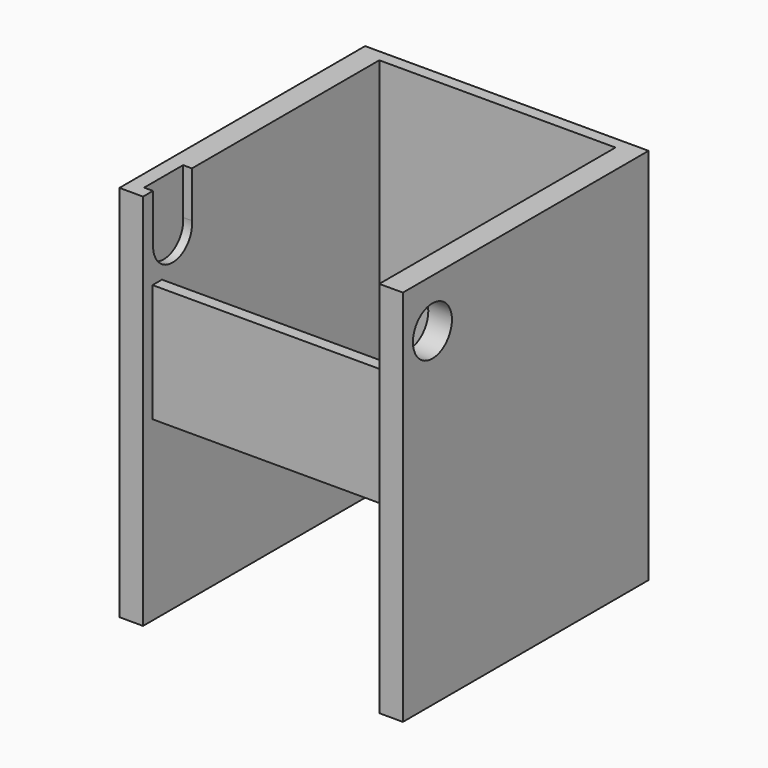
from build123d import *

# Parameters (mm, degrees)
SKETCH026_W      = 8.25
SKETCH026_H      = 20
EXTRUDE031_DEPTH = 10
SKETCH023_R      = 4.125
EXTRUDE028_DEPTH = 60
SKETCH022_W      = 4
SKETCH022_H      = 64
EXTRUDE027_DEPTH = 26
SKETCH025_W      = 2
SKETCH025_H      = 20
EXTRUDE030_DEPTH = 20
SKETCH024_W      = 40
SKETCH024_H      = 64
EXTRUDE029_DEPTH = 2


with BuildPart() as extrude031:
    # Sketch026 (on Sketch) → Extrude031 (new body)
    with BuildSketch(Plane.YZ):
        with Locations((-19.875, 65.75)):
            Rectangle(SKETCH026_W, SKETCH026_H)
    extrude(amount=EXTRUDE031_DEPTH)


with BuildPart() as extrude031_1:
    # Extrude031 placement: moved
    add(extrude031.part.moved(Location((-21.5, 0.1, 0))))


with BuildPart() as fusion010:
    # Sketch023 → Extrude028 (new body)
    with BuildSketch(Plane.YZ):
        with Locations((-19.75, 55.75)):
            Circle(SKETCH023_R)
    extrude(amount=EXTRUDE028_DEPTH)


with BuildPart() as fusion010_1:
    # Extrude028 placement: moved
    add(fusion010.part.moved(Location((-21.5, 0, 0))))

    # Fusion010: union Extrude031
    add(extrude031_1.part)


with BuildPart() as extrude027:
    # Sketch022 → Extrude027 (new body, symmetric)
    with BuildSketch(Plane.XZ):
        with Locations((-22, 32)):
            Rectangle(SKETCH022_W, SKETCH022_H)
        with Locations((22, 32)):
            Rectangle(SKETCH022_W, SKETCH022_H)
    extrude(amount=EXTRUDE027_DEPTH, both=True)


with BuildPart() as extrude030:
    # Sketch025 → Extrude030 (new body, symmetric)
    with BuildSketch(Plane.YZ):
        with Locations((-23, 40)):
            Rectangle(SKETCH025_W, SKETCH025_H)
    extrude(amount=EXTRUDE030_DEPTH, both=True)


with BuildPart() as cut005:
    # Sketch024 → Extrude029 (new body)
    with BuildSketch(Plane.XZ):
        with Locations((0, 32)):
            Rectangle(SKETCH024_W, SKETCH024_H)
    extrude(amount=-EXTRUDE029_DEPTH)


with BuildPart() as cut005_1:
    # Extrude029 placement: moved
    add(cut005.part.moved(Location((0, 24, 0))))

    # Fusion011: union Extrude027, Extrude030
    add(extrude027.part)
    add(extrude030.part)

    # Cut005: cut Fusion010
    add(fusion010_1.part, mode=Mode.SUBTRACT)


solid = cut005_1.part
